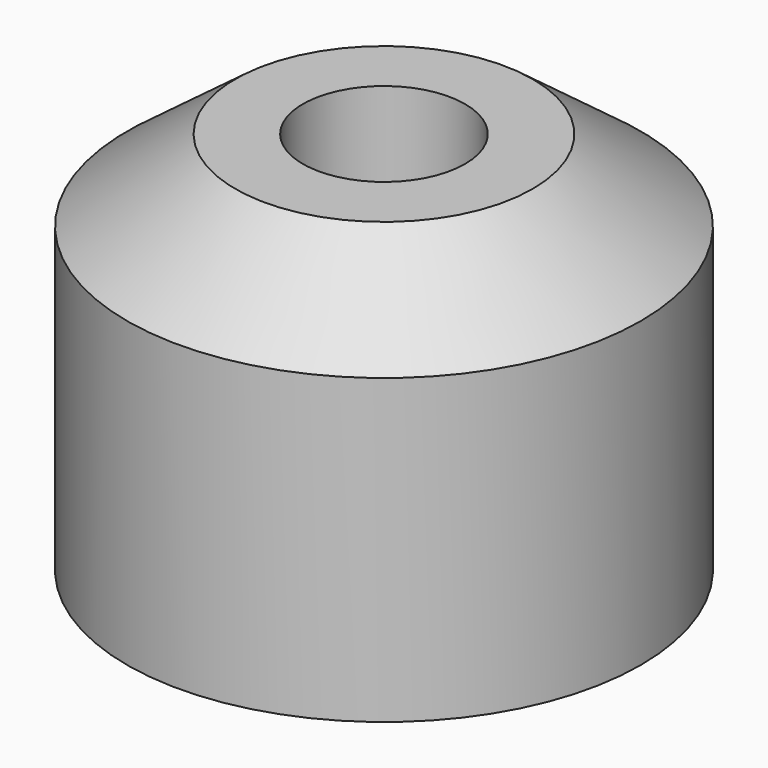
from build123d import *

# Parameters (mm, degrees)
F0_R     = 9.5
F0_R_2   = 3
F1_DEPTH = 14.2
F2_SIZE2 = 3
F2_SIZE  = 4


with BuildPart() as f1:
    # F0 (on Top) → F1 (new body)
    with BuildSketch(Plane.XY):
        Circle(F0_R)
        Circle(F0_R_2, mode=Mode.SUBTRACT)
    extrude(amount=F1_DEPTH)

    # F2
    f2_edges = [f1.edges().sort_by_distance(p)[0] for p in [
        (-9.5, 0, 14.2),
    ]]
    f2_side = f1.faces().sort_by_distance((-9.231299, 0, 14.2))[0]
    chamfer(f2_edges, length=F2_SIZE, length2=F2_SIZE2, reference=f2_side)


solid = f1.part
